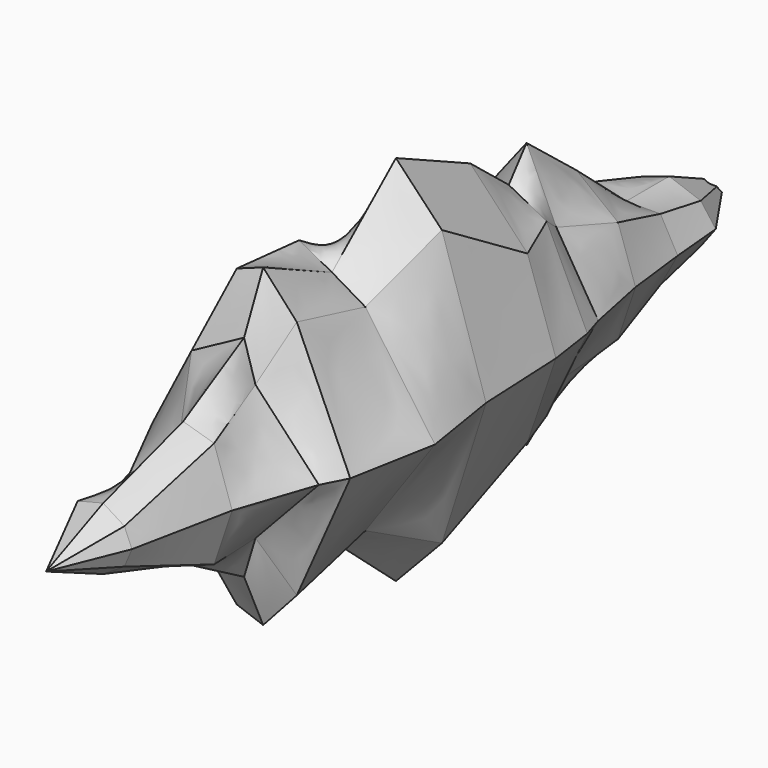
from build123d import *

# Parameters (mm, degrees)
F38_W = 44.781
F38_H = 1.45


with BuildPart() as f25:
    # F13 (on line) → F25 section 0
    with BuildSketch(Plane(origin=(0, 44.3519584301, 0), x_dir=(-1, 0, 0), z_dir=(0, 1, 0)), mode=Mode.PRIVATE) as f25_s0:
        Polygon((3.7910395768, 2.7775263879), (0, 4.0554775967), (-4.0884707123, 2.598446561), (-6.035963539, 0), (5.9399968013, 0), align=None)
    loft([Vertex(0, 53.2233141891, 0), f25_s0.sketch])

    # F13 (on line) → F26 section 0
    with BuildSketch(Plane(origin=(0, 44.3519584301, 0), x_dir=(-1, 0, 0), z_dir=(0, 1, 0))):
        Polygon((3.7910395768, 2.7775263879), (0, 4.0554775967), (-4.0884707123, 2.598446561), (-6.035963539, 0), (5.9399968013, 0), align=None)
    # F14 (on line) → F26 section 1
    with BuildSketch(Plane(origin=(0, 37.3749495955, 0), x_dir=(-1, 0, 0), z_dir=(0, 1, 0))):
        Polygon((3.8987847511, 5.0465827808), (0, 4.0554775967), (-4.4464562088, 4.0554775967), (-6.6822497174, 0), (9.5368502662, 0), align=None)
    loft()

    # F14 (on line) → F27 section 0
    with BuildSketch(Plane(origin=(0, 37.3749495955, 0), x_dir=(-1, 0, 0), z_dir=(0, 1, 0))):
        Polygon((3.8987847511, 5.0465827808), (0, 4.0554775967), (-4.4464562088, 4.0554775967), (-6.6822497174, 0), (9.5368502662, 0), align=None)
    # F15 (on line) → F27 section 1
    with BuildSketch(Plane(origin=(0, 29.3056006588, 0), x_dir=(-1, 0, 0), z_dir=(0, 1, 0))):
        Polygon((-5.394635722, 6.6652954556), (-7.6585761271, 0), (11.06247399, 0), (1.9196349895, 6.6652954556), (0, 10.8723537996), align=None)
    loft()

    # F15 (on line) → F28 section 0
    with BuildSketch(Plane(origin=(0, 29.3056006588, 0), x_dir=(-1, 0, 0), z_dir=(0, 1, 0))):
        Polygon((-5.394635722, 6.6652954556), (-7.6585761271, 0), (11.06247399, 0), (1.9196349895, 6.6652954556), (0, 10.8723537996), align=None)
    # F16 (on line) → F28 section 1
    with BuildSketch(Plane(origin=(0, 21.1991607762, 0), x_dir=(-1, 0, 0), z_dir=(0, 1, 0))):
        Polygon((-3.8692564704, 8.9033907279), (-9.3132955953, 0), (11.1535340548, 0), (6.5364371985, 8.9033907279), (0, 17.2909084561), align=None)
    loft()

    # F16 (on line) → F29 section 0
    with BuildSketch(Plane(origin=(0, 21.1991607762, 0), x_dir=(-1, 0, 0), z_dir=(0, 1, 0))):
        Polygon((-3.8692564704, 8.9033907279), (-9.3132955953, 0), (11.1535340548, 0), (6.5364371985, 8.9033907279), (0, 17.2909084561), align=None)
    # F17 (on line) → F29 section 1
    with BuildSketch(Plane(origin=(0, 18.3075857421, 0), x_dir=(-1, 0, 0), z_dir=(0, 1, 0))):
        Polygon((5.4263854399, 8.0849630758), (0, 13.6727534279), (-4.9263308756, 11.1087756231), (-10.2051915601, 0), (12.550285086, 0), align=None)
    loft()

    # F17 (on line) → F30 section 0
    with BuildSketch(Plane(origin=(0, 18.3075857421, 0), x_dir=(-1, 0, 0), z_dir=(0, 1, 0))):
        Polygon((5.4263854399, 8.0849630758), (0, 13.6727534279), (-4.9263308756, 11.1087756231), (-10.2051915601, 0), (12.550285086, 0), align=None)
    # F18 (on line) → F30 section 1
    with BuildSketch(Plane(origin=(0, 12.0614638791, 0), x_dir=(-1, 0, 0), z_dir=(0, 1, 0))):
        Polygon((5.5892835371, 13.0735216662), (0, 18.6645599972), (-7.4337879196, 10.7801500708), (-11.1195622012, 0), (14.0256118029, 0), align=None)
    loft()

    # F18 (on line) → F31 section 0
    with BuildSketch(Plane(origin=(0, 12.0614638791, 0), x_dir=(-1, 0, 0), z_dir=(0, 1, 0))):
        Polygon((5.5892835371, 13.0735216662), (0, 18.6645599972), (-7.4337879196, 10.7801500708), (-11.1195622012, 0), (14.0256118029, 0), align=None)
    # F19 (on line) → F31 section 1
    with BuildSketch(Plane(origin=(0, 0, 0), x_dir=(-1, 0, 0), z_dir=(0, 1, 0))):
        Polygon((3.0500809662, 11.4117795601), (0, 24.1783729785), (-5.9690847993, 17.8943052888), (-11.7000127211, 0), (15.1695851237, 0), align=None)
    loft()

    # F19 (on line) → F32 section 0
    with BuildSketch(Plane(origin=(0, 0, 0), x_dir=(-1, 0, 0), z_dir=(0, 1, 0))):
        Polygon((3.0500809662, 11.4117795601), (0, 24.1783729785), (-5.9690847993, 17.8943052888), (-11.7000127211, 0), (15.1695851237, 0), align=None)
    # F20 (on line) → F32 section 1
    with BuildSketch(Plane(origin=(0, -10.3749613187, 0), x_dir=(-1, 0, 0), z_dir=(0, 1, 0))):
        Polygon((4.2670927942, 17.6140964031), (0, 15.3345312341), (-4.3314951472, 12.7889886498), (-13.3631061763, 0), (16.8247427791, 0), align=None)
    loft()

    # F20 (on line) → F33 section 0
    with BuildSketch(Plane(origin=(0, -10.3749613187, 0), x_dir=(-1, 0, 0), z_dir=(0, 1, 0))):
        Polygon((4.2670927942, 17.6140964031), (0, 15.3345312341), (-4.3314951472, 12.7889886498), (-13.3631061763, 0), (16.8247427791, 0), align=None)
    # F21 (on line) → F33 section 1
    with BuildSketch(Plane(origin=(0, -21.5473760615, 0), x_dir=(-1, 0, 0), z_dir=(0, 1, 0))):
        Polygon((3.4285266884, 19.1983692348), (0, 20.441921685), (-4.3692635372, 15.6214013696), (-11.3085815683, 0), (13.2294176146, 0), align=None)
    loft()

    # F21 (on line) → F34 section 0
    with BuildSketch(Plane(origin=(0, -21.5473760615, 0), x_dir=(-1, 0, 0), z_dir=(0, 1, 0))):
        Polygon((3.4285266884, 19.1983692348), (0, 20.441921685), (-4.3692635372, 15.6214013696), (-11.3085815683, 0), (13.2294176146, 0), align=None)
    # F22 (on line) → F34 section 1
    with BuildSketch(Plane(origin=(0, -24.6418534966, 0), x_dir=(-1, 0, 0), z_dir=(0, 1, 0))):
        Polygon((6.8145757541, 9.9734431133), (0, 13.6727534279), (-1.4779851772, 8.7716225535), (-9.7104553133, 0), (11.9223129004, 0), align=None)
    loft()

    # F22 (on line) → F35 section 0
    with BuildSketch(Plane(origin=(0, -24.6418534966, 0), x_dir=(-1, 0, 0), z_dir=(0, 1, 0))):
        Polygon((6.8145757541, 9.9734431133), (0, 13.6727534279), (-1.4779851772, 8.7716225535), (-9.7104553133, 0), (11.9223129004, 0), align=None)
    # F23 (on line) → F35 section 1
    with BuildSketch(Plane(origin=(0, -34.5294950436, 0), x_dir=(-1, 0, 0), z_dir=(0, 1, 0))):
        Polygon((1.0886047967, 2.3844914977), (0, 8.1109551934), (-4.0203835815, 6.9205099717), (-6.3600144349, 0), (6.9138077088, 0), align=None)
    loft()

    # F23 (on line) → F36 section 0
    with BuildSketch(Plane(origin=(0, -34.5294950436, 0), x_dir=(-1, 0, 0), z_dir=(0, 1, 0))):
        Polygon((1.0886047967, 2.3844914977), (0, 8.1109551934), (-4.0203835815, 6.9205099717), (-6.3600144349, 0), (6.9138077088, 0), align=None)
    # F24 (on line) → F36 section 1
    with BuildSketch(Plane(origin=(0, -47.507023353, 0), x_dir=(-1, 0, 0), z_dir=(0, 1, 0))):
        Polygon((3.3167498186, 3.206271911), (0, 4.0554775967), (-2.7525012847, 2.3137351964), (-3.734291764, 0), (3.3167498186, 0), align=None)
    loft()

    # F24 (on line) → F37 section 0
    with BuildSketch(Plane(origin=(0, -47.507023353, 0), x_dir=(-1, 0, 0), z_dir=(0, 1, 0)), mode=Mode.PRIVATE) as f37_s0:
        Polygon((3.3167498186, 3.206271911), (0, 4.0554775967), (-2.7525012847, 2.3137351964), (-3.734291764, 0), (3.3167498186, 0), align=None)
    loft([Vertex(0, -56.7766858109, 0), f37_s0.sketch])

    # F38 (on Right) → F39 (revolve, cut)
    with BuildSketch(Plane.YZ):
        with Locations((31.6905, 0.725)):
            Rectangle(F38_W, F38_H)
        with BuildLine():
            Line((0, 0), (9.3, 0))
            Line((9.3, 0), (9.3, 1.45))
            Line((9.3, 1.45), (9.3, 3.25))
            Line((9.3, 3.25), (7.6, 3.25))
            Line((7.6, 3.25), (7.6, 2.75))
            Line((7.6, 2.75), (2.75, 2.75))
            ThreePointArc((2.75, 2.75), (0.8054563517, 1.9445436483), (0, 0))
        make_face()
    revolve(axis=Axis((0, 4.65, 0), (0, -1, 0)), mode=Mode.SUBTRACT)


with BuildPart() as f40_1:
    # F40: instance of F25
    add(f25.part.mirror(Plane(origin=(-1.318535631, -1.9547629388, 0), x_dir=(1, 0, 0), z_dir=(0, 0, -1))))


solid = Compound([f25.part, f40_1.part])
